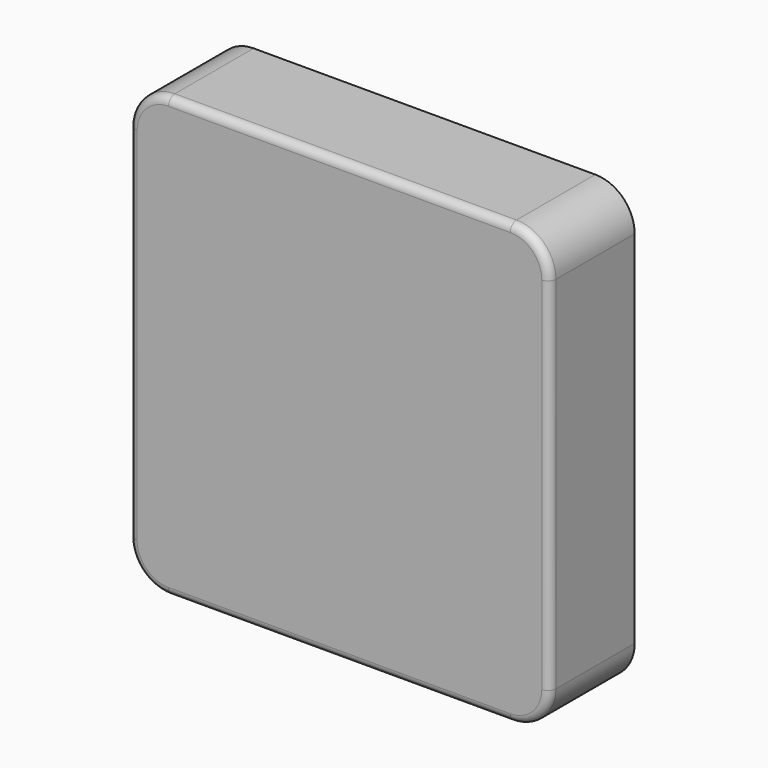
from build123d import *

# Parameters (mm, degrees)
F0_W     = 53.4
F0_H     = 55.8
F1_DEPTH = 13.5
F2_R     = 5
F3_R     = 1
F5_D     = 2.4
F5_DEPTH = 4.55
F5_TIP   = 0.7210327428


with BuildPart() as f1:
    # F0 (on Front) → F1 (new body)
    with BuildSketch(Plane.XZ):
        Rectangle(F0_W, F0_H)
    extrude(amount=F1_DEPTH)

    # F2
    f2_edges = [f1.edges().sort_by_distance(p)[0] for p in [
        (-26.7, -6.75, 27.9),
        (26.7, -6.75, 27.9),
        (26.7, -6.75, -27.9),
        (-26.7, -6.75, -27.9),
    ]]
    fillet(f2_edges, radius=F2_R)

    # F3
    f3_edges = [f1.edges().sort_by_distance(p)[0] for p in [
        (0, -13.5, 27.9),
    ]]
    fillet(f3_edges, radius=F3_R)

    # F5
    with Locations(Plane(origin=(0, 0, 0), x_dir=(-1, 0, 0), z_dir=(0, 1, 0))):
        with Locations((-22.5, 22.5), (22.5, 22.5), (22.5, -22.5), (-22.5, -22.5)):
            Hole(F5_D / 2, depth=F5_DEPTH)
            with Locations((0, 0, -(F5_DEPTH + F5_TIP / 2))):  # 118° drill point
                Cone(0, F5_D / 2, F5_TIP, mode=Mode.SUBTRACT)


solid = f1.part
